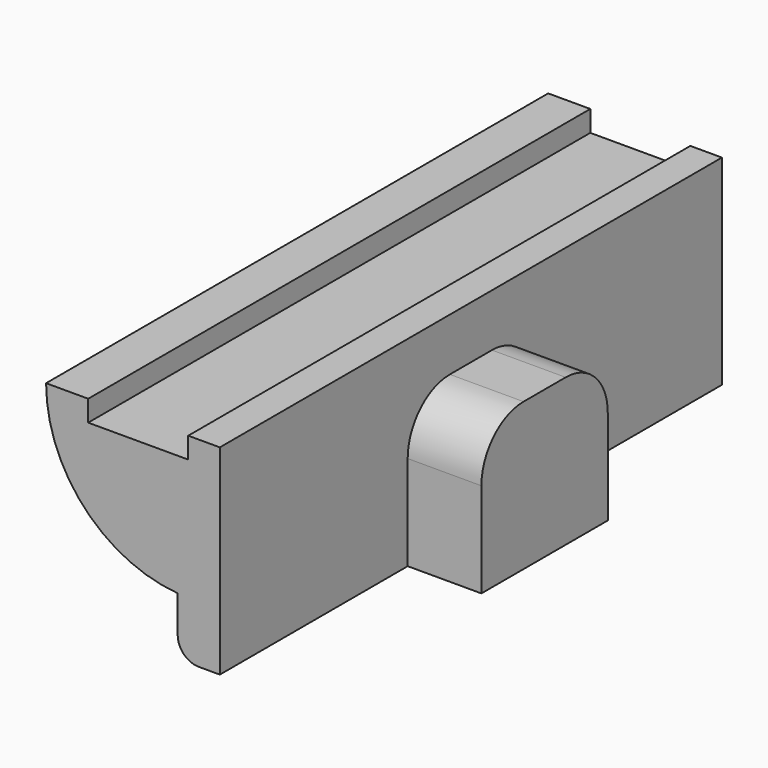
from build123d import *

# Parameters (mm, degrees)
F1_DEPTH = 59.6
F2_R     = 2
F3_W     = 15
F3_H     = 14
F4_DEPTH = 7
F5_R     = 5


with BuildPart() as f1:
    # F0 (on Front) → F1 (new body)
    with BuildSketch(Plane.XZ):
        with BuildLine():
            Line((0, -9.5), (0, 7.5))
            Line((0, 7.5), (-9.5, 7.5))
            Line((-9.5, 7.5), (-9.5, 9.5))
            Line((-9.5, 9.5), (-13.5, 9.5))
            ThreePointArc((-13.5, 9.5), (-9.89512, 0.300815), (-1, -4))
            Line((-1, -4), (-1, -9.5))
            Line((-1, -9.5), (0, -9.5))
        make_face()
        Polygon((3, 9.5), (0, 9.5), (0, 7.5), (0, -9.5), (3, -9.5), align=None)
    extrude(amount=F1_DEPTH)

    # F2
    f2_edges = [f1.edges().sort_by_distance(p)[0] for p in [
        (-1, -29.8, -9.5),
    ]]
    fillet(f2_edges, radius=F2_R)

    # F3 (on face) → F4 (join)
    with BuildSketch(Plane.YZ.offset(3)):
        with Locations((-29.8, -2.5)):
            Rectangle(F3_W, F3_H)
    extrude(amount=F4_DEPTH)

    # F5
    f5_edges = [f1.edges().sort_by_distance(p)[0] for p in [
        (6.5, -37.3, 4.5),
        (6.5, -22.3, 4.5),
    ]]
    fillet(f5_edges, radius=F5_R)


solid = f1.part
